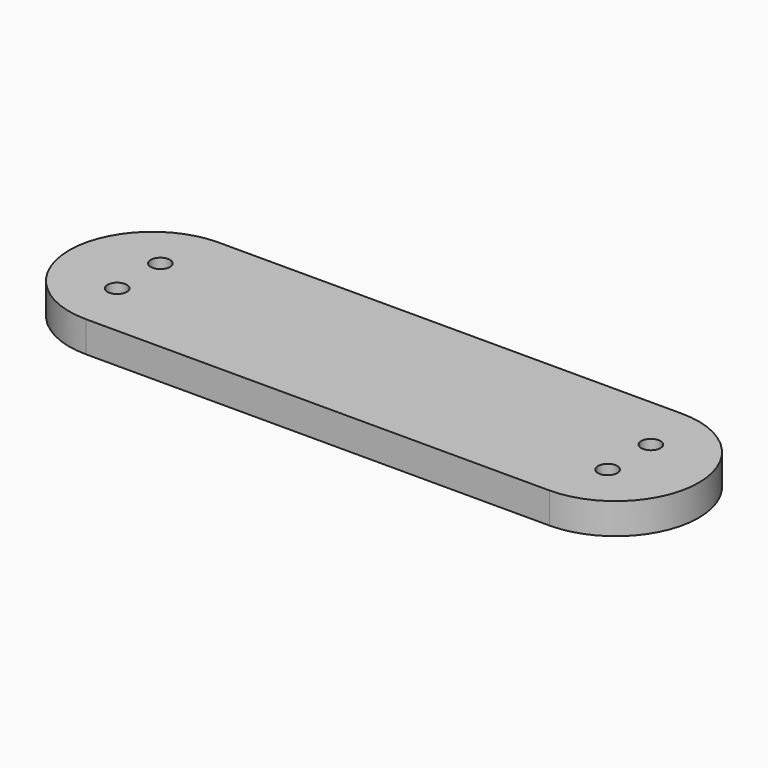
from build123d import *

# Parameters (mm, degrees)
F0_R     = 2.5
F0_R_2   = 6.5
F1_DEPTH = 8
F3_DEPTH = 8
F4_DEPTH = 8
F5_DEPTH = 4


with BuildPart() as f1:
    # F0 (on Top) → F1 (new body)
    with BuildSketch(Plane.XY):
        with BuildLine():
            Line((120, 14.5), (0, 14.5))
            ThreePointArc((0, 14.5), (-14.5, 0), (0, -14.5))
            Line((0, -14.5), (120, -14.5))
            ThreePointArc((120, -14.5), (134.5, 0), (120, 14.5))
        make_face()
        with Locations((-3.5, -7)):
            Circle(F0_R, mode=Mode.SUBTRACT)
        with Locations((123.5, -7)):
            Circle(F0_R, mode=Mode.SUBTRACT)
        with Locations((10, 0)):
            Circle(F0_R_2, mode=Mode.SUBTRACT)
        with Locations((-3.5, 7)):
            Circle(F0_R, mode=Mode.SUBTRACT)
        with Locations((30, 0)):
            Circle(F0_R_2, mode=Mode.SUBTRACT)
        with Locations((50, 0)):
            Circle(F0_R_2, mode=Mode.SUBTRACT)
        with Locations((70, 0)):
            Circle(F0_R_2, mode=Mode.SUBTRACT)
        with Locations((90, 0)):
            Circle(F0_R_2, mode=Mode.SUBTRACT)
        with Locations((110, 0)):
            Circle(F0_R_2, mode=Mode.SUBTRACT)
        with Locations((123.5, 7)):
            Circle(F0_R, mode=Mode.SUBTRACT)
    extrude(amount=F1_DEPTH)


with BuildPart() as f3:
    # F2 (on Top) → F3 (new body)
    with BuildSketch(Plane.XY):
        with BuildLine():
            Line((120, 21.5), (0, 21.5))
            ThreePointArc((0, 21.5), (-21.5, 0), (0, -21.5))
            Line((0, -21.5), (120, -21.5))
            ThreePointArc((120, -21.5), (141.5, 0), (120, 21.5))
        make_face()
    extrude(amount=F3_DEPTH)

    # F0 (on Top) → F4 (cut, through all)
    with BuildSketch(Plane.XY):
        with Locations((-3.5, -7)):
            Circle(F0_R)
        with Locations((-3.5, 7)):
            Circle(F0_R)
        with Locations((123.5, 7)):
            Circle(F0_R)
        with Locations((123.5, -7)):
            Circle(F0_R)
    extrude(amount=F4_DEPTH, mode=Mode.SUBTRACT)

    # F0 (on Top) → F5 (cut)
    with BuildSketch(Plane.XY):
        with Locations((10, 0)):
            Circle(F0_R_2)
        with Locations((30, 0)):
            Circle(F0_R_2)
        with Locations((50, 0)):
            Circle(F0_R_2)
        with Locations((70, 0)):
            Circle(F0_R_2)
        with Locations((90, 0)):
            Circle(F0_R_2)
        with Locations((110, 0)):
            Circle(F0_R_2)
    extrude(amount=F5_DEPTH, mode=Mode.SUBTRACT)


solid = Compound([f1.part, f3.part])
